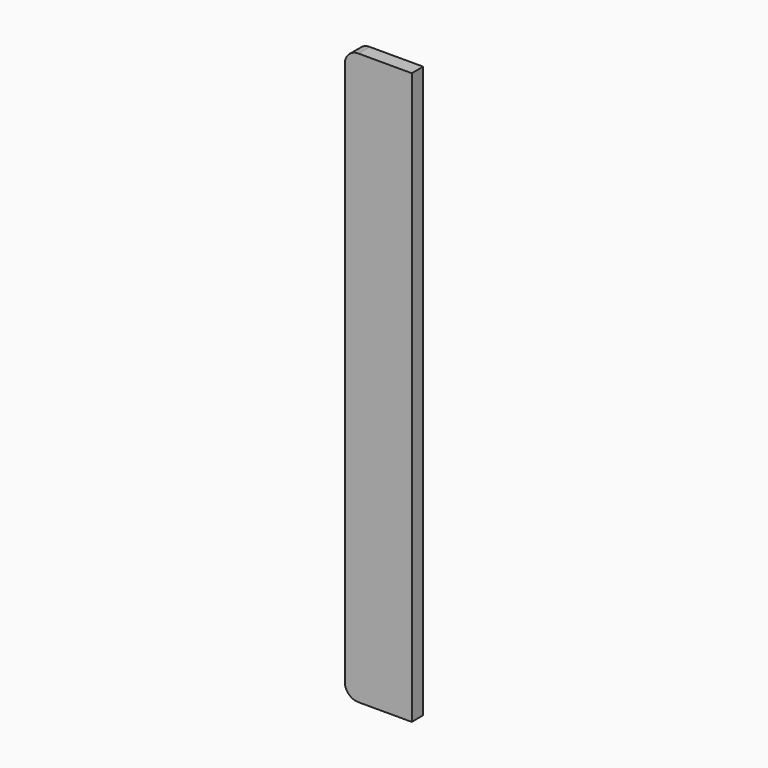
from build123d import *

# Parameters (mm, degrees)
F1_DEPTH = 16


with BuildPart() as f1:
    # F0 (on Front) → F1 (new body)
    with BuildSketch(Plane.XZ):
        with BuildLine():
            Line((75, 640), (15, 640))
            ThreePointArc((15, 640), (4.393398, 635.606602), (0, 625))
            Line((0, 625), (0, 15))
            ThreePointArc((0, 15), (4.393398, 4.393398), (15, 0))
            Line((15, 0), (75, 0))
            Line((75, 0), (75, 640))
        make_face()
    extrude(amount=F1_DEPTH)


solid = f1.part
